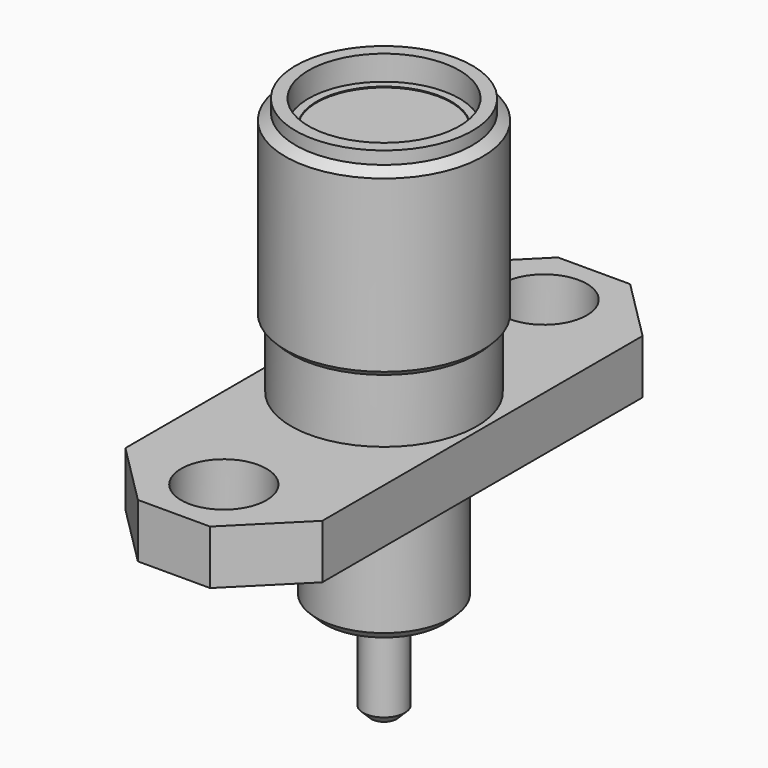
from build123d import *

# Parameters (mm, degrees)
SKETCH_R          = 1.3
SKETCH_R_2        = 2.3
PAD_DEPTH         = 1.65
SKETCH002_R       = 2.75
SKETCH002_R_2     = 2.4
POCKET_DEPTH      = 0.5
SKETCH003_R       = 2.05
SKETCH003_R_2     = 0.635
PAD001_DEPTH      = 8.75
PAD001_DEPTH_BACK = 4
SKETCH004_R       = 0.635
PAD002_DEPTH      = 8.75
PAD002_DEPTH_BACK = 7
CHAMFER_SIZE      = 0.25


with BuildPart() as part:
    # Sketch → Pad (new body)
    with BuildSketch(Plane.XY):
        Polygon((-3, 6.1), (-3, -6.1), (-1.1, -8), (1.1, -8), (3, -6.1), (3, 6.1), (1.1, 8), (-1.1, 8), align=None)
        with Locations((0, 6.1)):
            Circle(SKETCH_R, mode=Mode.SUBTRACT)
        with Locations((0, -6.1)):
            Circle(SKETCH_R, mode=Mode.SUBTRACT)
        Circle(SKETCH_R_2, mode=Mode.SUBTRACT)
    extrude(amount=PAD_DEPTH)

    # Sketch002 → Pocket (cut)
    with BuildSketch(Plane.XY):
        Circle(SKETCH002_R)
        Circle(SKETCH002_R_2, mode=Mode.SUBTRACT)
    extrude(amount=POCKET_DEPTH, mode=Mode.SUBTRACT)

    # Sketch001 → Revolution (revolve)
    with BuildSketch(Plane.YZ):
        Polygon((2.829161, 1.1), (2.829161, 3.579748), (3.003812, 3.754399), (3.003812, 8.938169), (2.6924, 9.14224), (2.6924, 9.53), (2.2987, 9.53), (2.2987, 8.777293), (2.05, 8.777293), (2.05, 1.1), align=None)
    revolve(axis=Axis((0, 0, 0), (0, 0, 1)))

    # Sketch003 → Pad001 (join, two sides)
    with BuildSketch(Plane.XY) as pad001_sk:
        Circle(SKETCH003_R)
        Circle(SKETCH003_R_2, mode=Mode.SUBTRACT)
    extrude(amount=PAD001_DEPTH)
    extrude(pad001_sk.sketch, amount=-PAD001_DEPTH_BACK)

    # Sketch004 → Pad002 (join, two sides)
    with BuildSketch(Plane.XY) as pad002_sk:
        Circle(SKETCH004_R)
    extrude(amount=PAD002_DEPTH)
    extrude(pad002_sk.sketch, amount=-PAD002_DEPTH_BACK)

    # Chamfer
    chamfer_edges = [part.edges().sort_by_distance(p)[0] for p in [
        (-2.05, 0, -4),
        (-0.635, 0, -7),
    ]]
    chamfer(chamfer_edges, length=CHAMFER_SIZE)


solid = part.part
